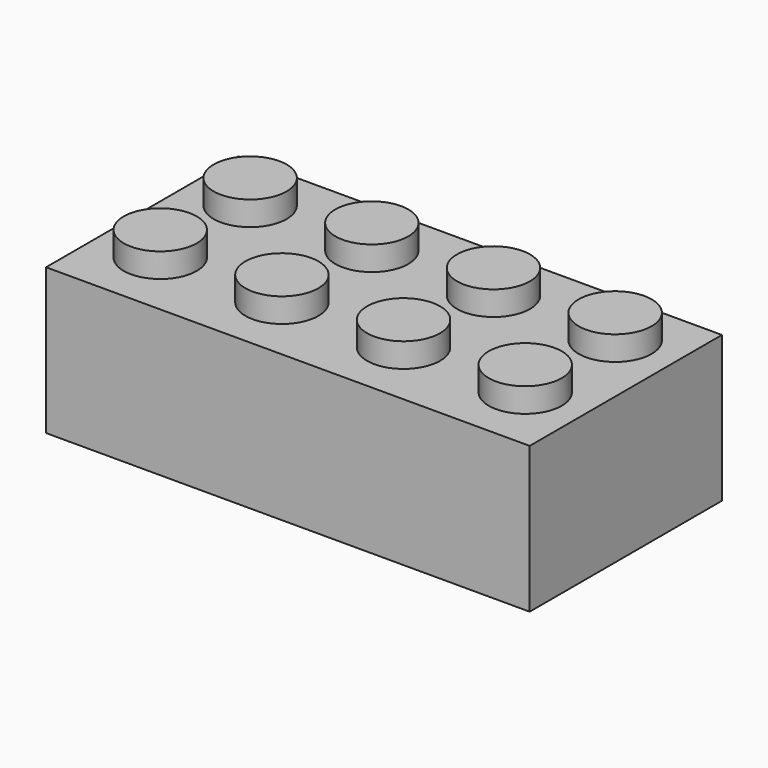
from build123d import *

# Parameters (mm, degrees)
F0_R     = 2.4
F1_DEPTH = 1.6
F2_W     = 31.8
F2_H     = 15.8
F2_W_2   = 29.5992456377
F2_H_2   = 13.7376701459
F2_R     = 2.4
F3_DEPTH = 9.6


with BuildPart() as f1:
    # F0 (on Top) → F1 (new body)
    with BuildSketch(Plane.XY):
        with Locations((-12, -3.39098)):
            Circle(F0_R)
    extrude(amount=F1_DEPTH)



with BuildPart() as f1b:
    # F0 (on Top) → F1, piece 2 (new body)
    with BuildSketch(Plane.XY):
        with Locations((-12, 4)):
            Circle(F0_R)
    extrude(amount=F1_DEPTH)


with BuildPart() as f1c:
    # F0 (on Top) → F1, piece 3 (new body)
    with BuildSketch(Plane.XY):
        with Locations((-4, 4)):
            Circle(F0_R)
    extrude(amount=F1_DEPTH)


with BuildPart() as f1d:
    # F0 (on Top) → F1, piece 4 (new body)
    with BuildSketch(Plane.XY):
        with Locations((-4, -3.39098)):
            Circle(F0_R)
    extrude(amount=F1_DEPTH)


with BuildPart() as f1e:
    # F0 (on Top) → F1, piece 5 (new body)
    with BuildSketch(Plane.XY):
        with Locations((4, -3.39098)):
            Circle(F0_R)
    extrude(amount=F1_DEPTH)


with BuildPart() as f1f:
    # F0 (on Top) → F1, piece 6 (new body)
    with BuildSketch(Plane.XY):
        with Locations((4, 4)):
            Circle(F0_R)
    extrude(amount=F1_DEPTH)


with BuildPart() as f1g:
    # F0 (on Top) → F1, piece 7 (new body)
    with BuildSketch(Plane.XY):
        with Locations((12, 4)):
            Circle(F0_R)
    extrude(amount=F1_DEPTH)


with BuildPart() as f1h:
    # F0 (on Top) → F1, piece 8 (new body)
    with BuildSketch(Plane.XY):
        with Locations((12, -3.39098)):
            Circle(F0_R)
    extrude(amount=F1_DEPTH)


with BuildPart() as f1_1:
    add(f1.part)

    add(f1b.part)  # F3 merges F1b

    add(f1c.part)  # F3 merges F1c

    add(f1d.part)  # F3 merges F1d

    add(f1e.part)  # F3 merges F1e

    add(f1f.part)  # F3 merges F1f

    add(f1g.part)  # F3 merges F1g

    add(f1h.part)  # F3 merges F1h
    # F2 (on face) → F3 (join)
    with BuildSketch(Plane(origin=(0, 0, 0), x_dir=(1, 0, 0), z_dir=(0, 0, -1))):
        Rectangle(F2_W, F2_H)
        Rectangle(F2_W_2, F2_H_2, mode=Mode.SUBTRACT)
        Rectangle(F2_W_2, F2_H_2)
        with Locations((-12, 3.39098)):
            Circle(F2_R, mode=Mode.SUBTRACT)
    extrude(amount=F3_DEPTH)


solid = f1_1.part
